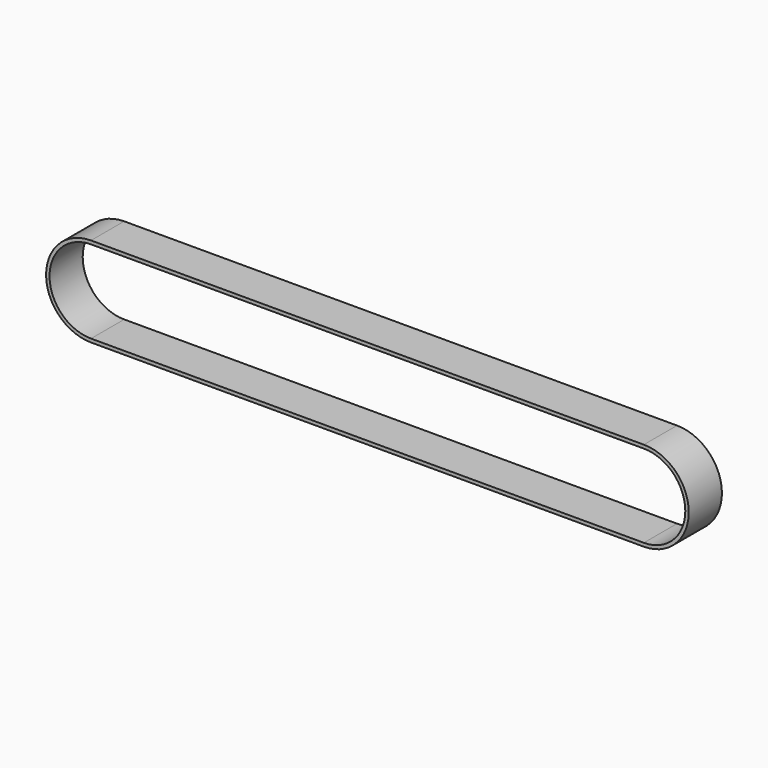
from build123d import *

# Parameters (mm, degrees)
F1_DEPTH = 6


with BuildPart() as f1:
    # F0 (on Front) → F1 (new body)
    with BuildSketch(Plane.XZ):
        with BuildLine():
            Line((0, 6.5), (-40, 6.5))
            ThreePointArc((-40, 6.5), (-46.5, 0), (-40, -6.5))
            Line((-40, -6.5), (0, -6.5))
            Line((0, -6.5), (40, -6.5))
            ThreePointArc((40, -6.5), (46.5, 0), (40, 6.5))
            Line((40, 6.5), (0, 6.5))
        make_face()
        with BuildLine():
            ThreePointArc((-40, -6), (-46, 0), (-40, 6))
            Line((-40, 6), (0, 6))
            Line((0, 6), (40, 6))
            ThreePointArc((40, 6), (46, 0), (40, -6))
            Line((40, -6), (0, -6))
            Line((0, -6), (-40, -6))
        make_face(mode=Mode.SUBTRACT)
    extrude(amount=F1_DEPTH)


solid = f1.part
